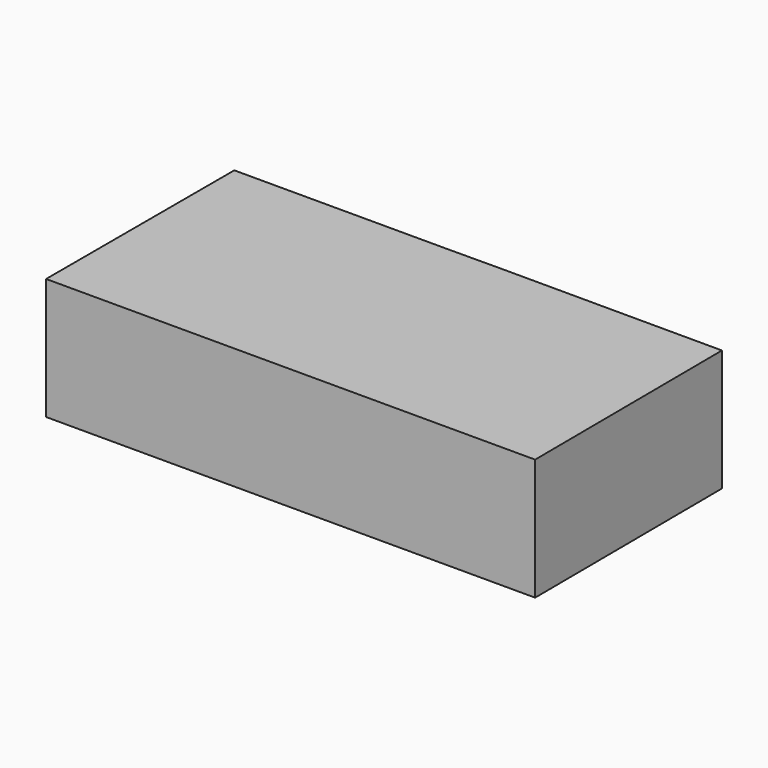
from build123d import *

# Parameters (mm, degrees)
F1_DEPTH = 25.4


with BuildPart() as f1:
    # F0 (on Top) → F1 (new body)
    with BuildSketch(Plane.XY):
        Polygon((-5.363799, -30.841844), (-5.661787, 18.326312), (-50.360113, 18.326312), (-50.360113, -30.841844), align=None)
        Polygon((5.359783, 18.39311), (-5.661787, 18.326312), (-5.363799, -30.841844), (5.658176, -30.841844), align=None)
        Polygon((51.552065, 18.326312), (5.359783, 18.39311), (5.658176, -30.841844), (51.850053, -30.841844), align=None)
    extrude(amount=F1_DEPTH)


solid = f1.part
